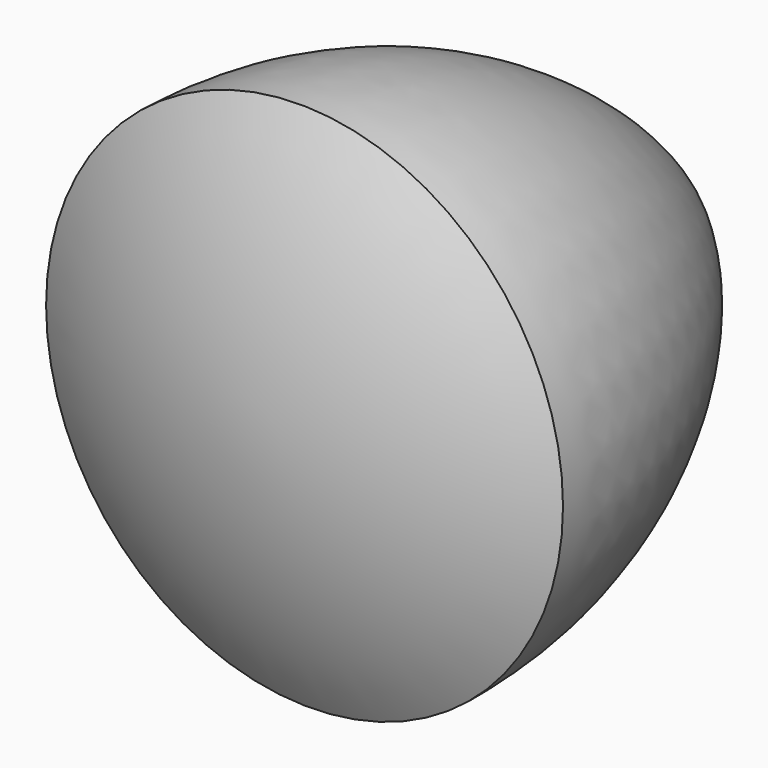
from build123d import *


with BuildPart() as f1:
    # F0 (on Top) → F1 (revolve)
    with BuildSketch(Plane.XY):
        with BuildLine():
            Line((-1.3931000059, -54.777823942), (1.9030099981, 74.8278990688))
            ThreePointArc((1.9030099981, 74.8278990688), (-46.7424370948, 28.5953719661), (-65.7543665044, -35.7658945324))
            ThreePointArc((-65.7543665044, -35.7658945324), (-34.8252172505, -49.5085199784), (-1.3931000059, -54.777823942))
        make_face()
    revolve(axis=Axis((0.2549549961, 10.0250375634, 0), (-0.0254236041, -0.9996767679, 0)))


solid = f1.part
